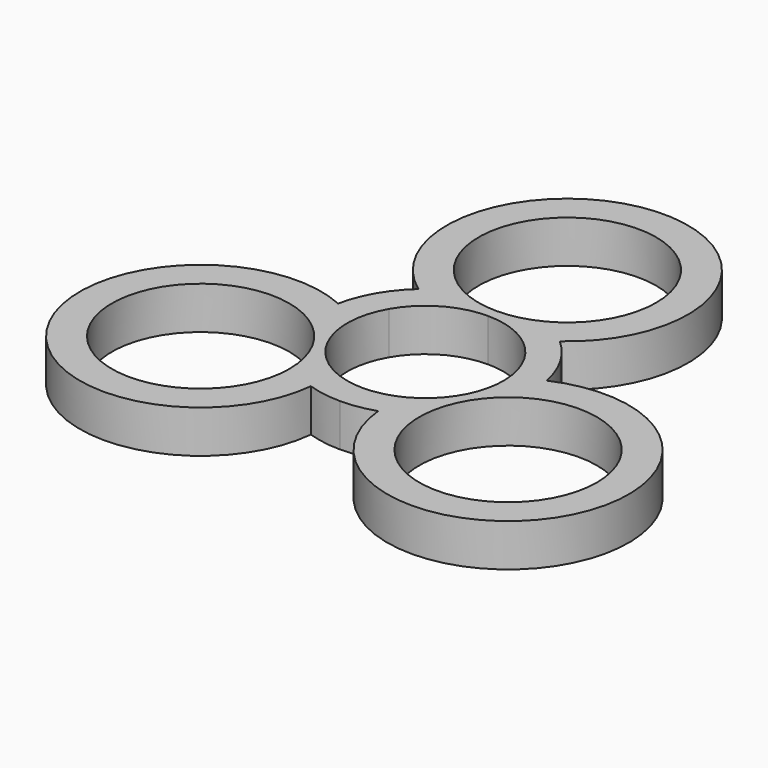
from build123d import *

# Parameters (mm, degrees)
F0_R     = 12.5
F1_DEPTH = 6


with BuildPart() as f1:
    # F0 (on Top) → F1 (new body)
    with BuildSketch(Plane.XY):
        with BuildLine():
            ThreePointArc((9.955481, 11.22), (0, 42), (-9.955481, 11.22))
            ThreePointArc((-9.955481, 11.22), (-11.622725, 9.482207), (-12.990381, 7.5))
            ThreePointArc((-12.990381, 7.5), (-14.023195, 5.324472), (-14.694545, 3.011699))
            ThreePointArc((-14.694545, 3.011699), (-36.373067, -21), (-4.739065, -14.231699))
            ThreePointArc((-4.739065, -14.231699), (-2.40047, -14.806679), (0, -15))
            ThreePointArc((0, -15), (2.40047, -14.806679), (4.739065, -14.231699))
            ThreePointArc((4.739065, -14.231699), (36.373067, -21), (14.694545, 3.011699))
            ThreePointArc((14.694545, 3.011699), (14.023195, 5.324472), (12.990381, 7.5))
            ThreePointArc((12.990381, 7.5), (11.622725, 9.482207), (9.955481, 11.22))
        make_face()
        with Locations((-21.650635, -12.5)):
            Circle(F0_R, mode=Mode.SUBTRACT)
        with Locations((21.650635, -12.5)):
            Circle(F0_R, mode=Mode.SUBTRACT)
        with BuildLine():
            ThreePointArc((0, 11), (5.5, 9.526279), (9.526279, 5.5))
            ThreePointArc((9.526279, 5.5), (9.526279, -5.5), (0, -11))
            ThreePointArc((0, -11), (-9.526279, -5.5), (-9.526279, 5.5))
            ThreePointArc((-9.526279, 5.5), (-5.5, 9.526279), (0, 11))
        make_face(mode=Mode.SUBTRACT)
        with BuildLine():
            ThreePointArc((12.5, 25), (8.838835, 16.161165), (0, 12.5))
            ThreePointArc((0, 12.5), (-8.838835, 33.838835), (12.5, 25))
        make_face(mode=Mode.SUBTRACT)
    extrude(amount=F1_DEPTH)


solid = f1.part
